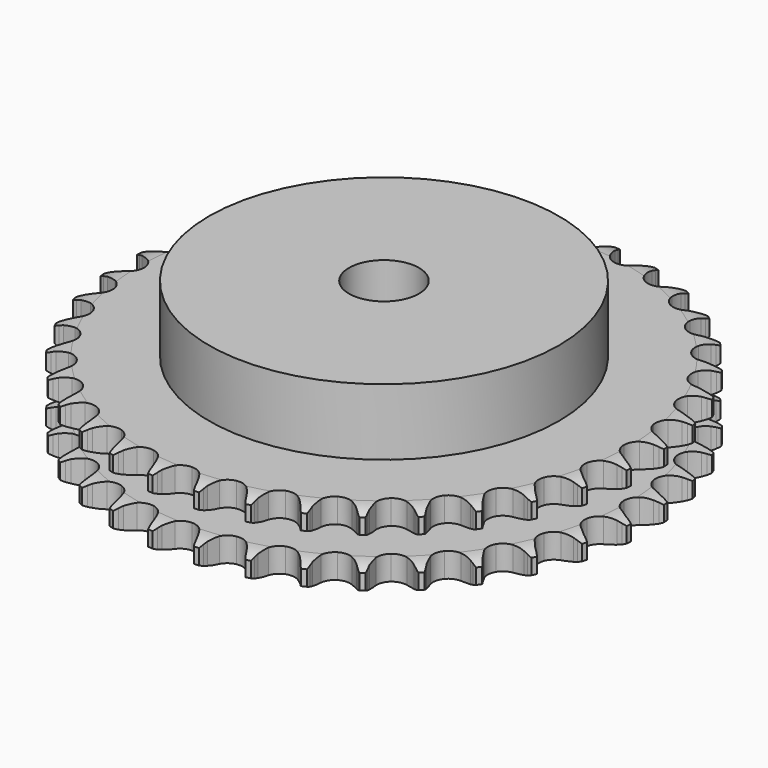
from build123d import *

# Parameters (mm, degrees)
PAD_DEPTH         = 21
SKETCH001_R       = 50
PAD001_DEPTH      = 40
SKETCH002_R       = 10
POCKET_DEPTH      = 0.001
POCKET_DEPTH_BACK = 40.001


with BuildPart() as part:
    # Sprocket → Pad (new body)
    with BuildSketch(Plane.XY):
        with BuildLine():
            ThreePointArc((-6.681952, 76.375066), (-5.936504, 75.349969), (-5.391044, 74.205858))
            Line((-5.391044, 74.205858), (-4.975926, 73.078951))
            ThreePointArc((-4.975926, 73.078951), (-4.31882, 71.625876), (-3.46066, 70.281713))
            ThreePointArc((-3.46066, 70.281713), (-1.936288, 69.002613), (0, 68.543704))
            ThreePointArc((0, 68.543704), (1.936288, 69.002613), (3.46066, 70.281713))
            ThreePointArc((3.46066, 70.281713), (4.31882, 71.625876), (4.975926, 73.078951))
            Line((4.975926, 73.078951), (5.391044, 74.205858))
            ThreePointArc((5.391044, 74.205858), (5.936504, 75.349969), (6.681952, 76.375066))
            ThreePointArc((6.681952, 76.375066), (7.23807, 75.236097), (7.57657, 74.01465))
            Line((7.57657, 74.01465), (7.789696, 72.832778))
            ThreePointArc((7.789696, 72.832778), (8.184495, 71.287674), (8.796206, 69.814913))
            ThreePointArc((8.796206, 69.814913), (10.075307, 68.290541), (11.902489, 67.502371))
            ThreePointArc((11.902489, 67.502371), (13.889049, 67.618075), (15.612376, 68.613039))
            Line((15.612376, 68.613039), (17.590357, 71.104657))
            ThreePointArc((17.590357, 71.104657), (17.87859, 71.631673), (18.194854, 72.14236))
            ThreePointArc((18.194854, 72.14236), (18.9307, 73.174371), (19.84283, 74.054448))
            ThreePointArc((19.84283, 74.054448), (20.192718, 72.836214), (20.313974, 71.574543))
            Line((20.313974, 71.574543), (20.318632, 70.373618))
            ThreePointArc((20.318632, 70.373618), (20.439129, 68.783431), (20.785805, 67.226823))
            ThreePointArc((20.785805, 67.226823), (21.780768, 65.503496), (23.443328, 64.410013))
            ThreePointArc((23.443328, 64.410013), (25.419799, 64.178997), (27.289718, 64.859592))
            Line((27.289718, 64.859592), (29.670314, 66.969884))
            ThreePointArc((29.670314, 66.969884), (30.045683, 67.438842), (30.445823, 67.886852))
            ThreePointArc((30.445823, 67.886852), (31.349696, 68.775406), (32.400792, 69.483724))
            ThreePointArc((32.400792, 69.483724), (32.533822, 68.22324), (32.434148, 66.95968))
            Line((32.434148, 66.95968), (32.230197, 65.776191))
            ThreePointArc((32.230197, 65.776191), (32.07273, 64.189238), (32.143837, 62.596079))
            ThreePointArc((32.143837, 62.596079), (32.824432, 60.72616), (34.271852, 59.360589))
            ThreePointArc((34.271852, 59.360589), (36.178181, 58.789872), (38.137876, 59.135419))
            Line((38.137876, 59.135419), (40.848754, 60.800265))
            ThreePointArc((40.848754, 60.800265), (41.299854, 61.196917), (41.77171, 61.568637))
            ThreePointArc((41.77171, 61.568637), (42.816148, 62.286736), (43.974274, 62.801771))
            ThreePointArc((43.974274, 62.801771), (43.886401, 61.537337), (43.568827, 60.310282))
            Line((43.568827, 60.310282), (43.162463, 59.180188))
            ThreePointArc((43.162463, 59.180188), (42.731818, 57.644689), (42.525195, 56.063385))
            ThreePointArc((42.525195, 56.063385), (42.870742, 54.10369), (44.059044, 52.507524))
            ThreePointArc((44.059044, 52.507524), (45.837307, 51.614446), (47.827234, 51.614446))
            Line((47.827234, 51.614446), (50.786025, 52.78326))
            ThreePointArc((50.786025, 52.78326), (51.299149, 53.095554), (51.828386, 53.379689))
            ThreePointArc((51.828386, 53.379689), (52.981653, 53.905514), (54.211619, 54.211619))
            ThreePointArc((54.211619, 54.211619), (53.905514, 52.981653), (53.379689, 51.828386))
            Line((53.379689, 51.828386), (52.78326, 50.786025))
            ThreePointArc((52.78326, 50.786025), (52.09252, 49.348634), (51.614446, 47.827234))
            ThreePointArc((51.614446, 47.827234), (51.614446, 45.837307), (52.507524, 44.059044))
            ThreePointArc((52.507524, 44.059044), (54.10369, 42.870742), (56.063385, 42.525195))
            Line((56.063385, 42.525195), (59.180188, 43.162463))
            ThreePointArc((59.180188, 43.162463), (59.739746, 43.380909), (60.310282, 43.568827))
            ThreePointArc((60.310282, 43.568827), (61.537337, 43.886401), (62.801771, 43.974274))
            ThreePointArc((62.801771, 43.974274), (62.286736, 42.816148), (61.568637, 41.77171))
            Line((61.568637, 41.77171), (60.800265, 40.848754))
            ThreePointArc((60.800265, 40.848754), (59.870418, 39.553146), (59.135419, 38.137876))
            ThreePointArc((59.135419, 38.137876), (58.789872, 36.178181), (59.360589, 34.271852))
            ThreePointArc((59.360589, 34.271852), (60.72616, 32.824432), (62.596079, 32.143837))
            Line((62.596079, 32.143837), (65.776191, 32.230197))
            ThreePointArc((65.776191, 32.230197), (66.365181, 32.348157), (66.95968, 32.434148))
            ThreePointArc((66.95968, 32.434148), (68.22324, 32.533822), (69.483724, 32.400792))
            ThreePointArc((69.483724, 32.400792), (68.775406, 31.349696), (67.886852, 30.445823))
            Line((67.886852, 30.445823), (66.969884, 29.670314))
            ThreePointArc((66.969884, 29.670314), (65.829184, 28.555856), (64.859592, 27.289718))
            ThreePointArc((64.859592, 27.289718), (64.178997, 25.419799), (64.410013, 23.443328))
            ThreePointArc((64.410013, 23.443328), (65.503496, 21.780768), (67.226823, 20.785805))
            Line((67.226823, 20.785805), (70.373618, 20.318632))
            ThreePointArc((70.373618, 20.318632), (70.974143, 20.332524), (71.574543, 20.313974))
            ThreePointArc((71.574543, 20.313974), (72.836214, 20.192718), (74.054448, 19.84283))
            ThreePointArc((74.054448, 19.84283), (73.174371, 18.9307), (72.14236, 18.194854))
            Line((72.14236, 18.194854), (71.104657, 17.590357))
            ThreePointArc((71.104657, 17.590357), (69.787763, 16.69091), (68.613039, 15.612376))
            ThreePointArc((68.613039, 15.612376), (67.618075, 13.889049), (67.502371, 11.902489))
            ThreePointArc((67.502371, 11.902489), (68.290541, 10.075307), (69.814913, 8.796206))
            Line((69.814913, 8.796206), (72.832778, 7.789696))
            ThreePointArc((72.832778, 7.789696), (73.426592, 7.699096), (74.01465, 7.57657))
            ThreePointArc((74.01465, 7.57657), (75.236097, 7.23807), (76.375066, 6.681952))
            ThreePointArc((76.375066, 6.681952), (75.349969, 5.936504), (74.205858, 5.391044))
            Line((74.205858, 5.391044), (73.078951, 4.975926))
            ThreePointArc((73.078951, 4.975926), (71.625876, 4.31882), (70.281713, 3.46066))
            ThreePointArc((70.281713, 3.46066), (69.002613, 1.936288), (68.543704, 0))
            ThreePointArc((68.543704, 0), (69.002613, -1.936288), (70.281713, -3.46066))
            Line((70.281713, -3.46066), (73.078951, -4.975926))
            ThreePointArc((73.078951, -4.975926), (73.648011, -5.168264), (74.205858, -5.391044))
            ThreePointArc((74.205858, -5.391044), (75.349969, -5.936504), (76.375066, -6.681952))
            ThreePointArc((76.375066, -6.681952), (75.236097, -7.23807), (74.01465, -7.57657))
            Line((74.01465, -7.57657), (72.832778, -7.789696))
            ThreePointArc((72.832778, -7.789696), (71.287674, -8.184495), (69.814913, -8.796206))
            ThreePointArc((69.814913, -8.796206), (68.290541, -10.075307), (67.502371, -11.902489))
            ThreePointArc((67.502371, -11.902489), (67.618075, -13.889049), (68.613039, -15.612376))
            Line((68.613039, -15.612376), (71.104657, -17.590357))
            ThreePointArc((71.104657, -17.590357), (71.631673, -17.87859), (72.14236, -18.194854))
            ThreePointArc((72.14236, -18.194854), (73.174371, -18.9307), (74.054448, -19.84283))
            ThreePointArc((74.054448, -19.84283), (72.836214, -20.192718), (71.574543, -20.313974))
            Line((71.574543, -20.313974), (70.373618, -20.318632))
            ThreePointArc((70.373618, -20.318632), (68.783431, -20.439129), (67.226823, -20.785805))
            ThreePointArc((67.226823, -20.785805), (65.503496, -21.780768), (64.410013, -23.443328))
            ThreePointArc((64.410013, -23.443328), (64.178997, -25.419799), (64.859592, -27.289718))
            Line((64.859592, -27.289718), (66.969884, -29.670314))
            ThreePointArc((66.969884, -29.670314), (67.438842, -30.045683), (67.886852, -30.445823))
            ThreePointArc((67.886852, -30.445823), (68.775406, -31.349696), (69.483724, -32.400792))
            ThreePointArc((69.483724, -32.400792), (68.22324, -32.533822), (66.95968, -32.434148))
            Line((66.95968, -32.434148), (65.776191, -32.230197))
            ThreePointArc((65.776191, -32.230197), (64.189238, -32.07273), (62.596079, -32.143837))
            ThreePointArc((62.596079, -32.143837), (60.72616, -32.824432), (59.360589, -34.271852))
            ThreePointArc((59.360589, -34.271852), (58.789872, -36.178181), (59.135419, -38.137876))
            Line((59.135419, -38.137876), (60.800265, -40.848754))
            ThreePointArc((60.800265, -40.848754), (61.196917, -41.299854), (61.568637, -41.77171))
            ThreePointArc((61.568637, -41.77171), (62.286736, -42.816148), (62.801771, -43.974274))
            ThreePointArc((62.801771, -43.974274), (61.537337, -43.886401), (60.310282, -43.568827))
            Line((60.310282, -43.568827), (59.180188, -43.162463))
            ThreePointArc((59.180188, -43.162463), (57.644689, -42.731818), (56.063385, -42.525195))
            ThreePointArc((56.063385, -42.525195), (54.10369, -42.870742), (52.507524, -44.059044))
            ThreePointArc((52.507524, -44.059044), (51.614446, -45.837307), (51.614446, -47.827234))
            Line((51.614446, -47.827234), (52.78326, -50.786025))
            ThreePointArc((52.78326, -50.786025), (53.095554, -51.299149), (53.379689, -51.828386))
            ThreePointArc((53.379689, -51.828386), (53.905514, -52.981653), (54.211619, -54.211619))
            ThreePointArc((54.211619, -54.211619), (52.981653, -53.905514), (51.828386, -53.379689))
            Line((51.828386, -53.379689), (50.786025, -52.78326))
            ThreePointArc((50.786025, -52.78326), (49.348634, -52.09252), (47.827234, -51.614446))
            ThreePointArc((47.827234, -51.614446), (45.837307, -51.614446), (44.059044, -52.507524))
            ThreePointArc((44.059044, -52.507524), (42.870742, -54.10369), (42.525195, -56.063385))
            Line((42.525195, -56.063385), (43.162463, -59.180188))
            ThreePointArc((43.162463, -59.180188), (43.380909, -59.739746), (43.568827, -60.310282))
            ThreePointArc((43.568827, -60.310282), (43.886401, -61.537337), (43.974274, -62.801771))
            ThreePointArc((43.974274, -62.801771), (42.816148, -62.286736), (41.77171, -61.568637))
            Line((41.77171, -61.568637), (40.848754, -60.800265))
            ThreePointArc((40.848754, -60.800265), (39.553146, -59.870418), (38.137876, -59.135419))
            ThreePointArc((38.137876, -59.135419), (36.178181, -58.789872), (34.271852, -59.360589))
            ThreePointArc((34.271852, -59.360589), (32.824432, -60.72616), (32.143837, -62.596079))
            Line((32.143837, -62.596079), (32.230197, -65.776191))
            ThreePointArc((32.230197, -65.776191), (32.348157, -66.365181), (32.434148, -66.95968))
            ThreePointArc((32.434148, -66.95968), (32.533822, -68.22324), (32.400792, -69.483724))
            ThreePointArc((32.400792, -69.483724), (31.349696, -68.775406), (30.445823, -67.886852))
            Line((30.445823, -67.886852), (29.670314, -66.969884))
            ThreePointArc((29.670314, -66.969884), (28.555856, -65.829184), (27.289718, -64.859592))
            ThreePointArc((27.289718, -64.859592), (25.419799, -64.178997), (23.443328, -64.410013))
            ThreePointArc((23.443328, -64.410013), (21.780768, -65.503496), (20.785805, -67.226823))
            Line((20.785805, -67.226823), (20.318632, -70.373618))
            ThreePointArc((20.318632, -70.373618), (20.332524, -70.974143), (20.313974, -71.574543))
            ThreePointArc((20.313974, -71.574543), (20.192718, -72.836214), (19.84283, -74.054448))
            ThreePointArc((19.84283, -74.054448), (18.9307, -73.174371), (18.194854, -72.14236))
            Line((18.194854, -72.14236), (17.590357, -71.104657))
            ThreePointArc((17.590357, -71.104657), (16.69091, -69.787763), (15.612376, -68.613039))
            ThreePointArc((15.612376, -68.613039), (13.889049, -67.618075), (11.902489, -67.502371))
            ThreePointArc((11.902489, -67.502371), (10.075307, -68.290541), (8.796206, -69.814913))
            Line((8.796206, -69.814913), (7.789696, -72.832778))
            ThreePointArc((7.789696, -72.832778), (7.699096, -73.426592), (7.57657, -74.01465))
            ThreePointArc((7.57657, -74.01465), (7.23807, -75.236097), (6.681952, -76.375066))
            ThreePointArc((6.681952, -76.375066), (5.936504, -75.349969), (5.391044, -74.205858))
            Line((5.391044, -74.205858), (4.975926, -73.078951))
            ThreePointArc((4.975926, -73.078951), (4.31882, -71.625876), (3.46066, -70.281713))
            ThreePointArc((3.46066, -70.281713), (1.936288, -69.002613), (0, -68.543704))
            ThreePointArc((0, -68.543704), (-1.936288, -69.002613), (-3.46066, -70.281713))
            Line((-3.46066, -70.281713), (-4.975926, -73.078951))
            ThreePointArc((-4.975926, -73.078951), (-5.168264, -73.648011), (-5.391044, -74.205858))
            ThreePointArc((-5.391044, -74.205858), (-5.936504, -75.349969), (-6.681952, -76.375066))
            ThreePointArc((-6.681952, -76.375066), (-7.23807, -75.236097), (-7.57657, -74.01465))
            Line((-7.57657, -74.01465), (-7.789696, -72.832778))
            ThreePointArc((-7.789696, -72.832778), (-8.184495, -71.287674), (-8.796206, -69.814913))
            ThreePointArc((-8.796206, -69.814913), (-10.075307, -68.290541), (-11.902489, -67.502371))
            ThreePointArc((-11.902489, -67.502371), (-13.889049, -67.618075), (-15.612376, -68.613039))
            Line((-15.612376, -68.613039), (-17.590357, -71.104657))
            ThreePointArc((-17.590357, -71.104657), (-17.87859, -71.631673), (-18.194854, -72.14236))
            ThreePointArc((-18.194854, -72.14236), (-18.9307, -73.174371), (-19.84283, -74.054448))
            ThreePointArc((-19.84283, -74.054448), (-20.192718, -72.836214), (-20.313974, -71.574543))
            Line((-20.313974, -71.574543), (-20.318632, -70.373618))
            ThreePointArc((-20.318632, -70.373618), (-20.439129, -68.783431), (-20.785805, -67.226823))
            ThreePointArc((-20.785805, -67.226823), (-21.780768, -65.503496), (-23.443328, -64.410013))
            ThreePointArc((-23.443328, -64.410013), (-25.419799, -64.178997), (-27.289718, -64.859592))
            Line((-27.289718, -64.859592), (-29.670314, -66.969884))
            ThreePointArc((-29.670314, -66.969884), (-30.045683, -67.438842), (-30.445823, -67.886852))
            ThreePointArc((-30.445823, -67.886852), (-31.349696, -68.775406), (-32.400792, -69.483724))
            ThreePointArc((-32.400792, -69.483724), (-32.533822, -68.22324), (-32.434148, -66.95968))
            Line((-32.434148, -66.95968), (-32.230197, -65.776191))
            ThreePointArc((-32.230197, -65.776191), (-32.07273, -64.189238), (-32.143837, -62.596079))
            ThreePointArc((-32.143837, -62.596079), (-32.824432, -60.72616), (-34.271852, -59.360589))
            ThreePointArc((-34.271852, -59.360589), (-36.178181, -58.789872), (-38.137876, -59.135419))
            Line((-38.137876, -59.135419), (-40.848754, -60.800265))
            ThreePointArc((-40.848754, -60.800265), (-41.299854, -61.196917), (-41.77171, -61.568637))
            ThreePointArc((-41.77171, -61.568637), (-42.816148, -62.286736), (-43.974274, -62.801771))
            ThreePointArc((-43.974274, -62.801771), (-43.886401, -61.537337), (-43.568827, -60.310282))
            Line((-43.568827, -60.310282), (-43.162463, -59.180188))
            ThreePointArc((-43.162463, -59.180188), (-42.731818, -57.644689), (-42.525195, -56.063385))
            ThreePointArc((-42.525195, -56.063385), (-42.870742, -54.10369), (-44.059044, -52.507524))
            ThreePointArc((-44.059044, -52.507524), (-45.837307, -51.614446), (-47.827234, -51.614446))
            Line((-47.827234, -51.614446), (-50.786025, -52.78326))
            ThreePointArc((-50.786025, -52.78326), (-51.299149, -53.095554), (-51.828386, -53.379689))
            ThreePointArc((-51.828386, -53.379689), (-52.981653, -53.905514), (-54.211619, -54.211619))
            ThreePointArc((-54.211619, -54.211619), (-53.905514, -52.981653), (-53.379689, -51.828386))
            Line((-53.379689, -51.828386), (-52.78326, -50.786025))
            ThreePointArc((-52.78326, -50.786025), (-52.09252, -49.348634), (-51.614446, -47.827234))
            ThreePointArc((-51.614446, -47.827234), (-51.614446, -45.837307), (-52.507524, -44.059044))
            ThreePointArc((-52.507524, -44.059044), (-54.10369, -42.870742), (-56.063385, -42.525195))
            Line((-56.063385, -42.525195), (-59.180188, -43.162463))
            ThreePointArc((-59.180188, -43.162463), (-59.739746, -43.380909), (-60.310282, -43.568827))
            ThreePointArc((-60.310282, -43.568827), (-61.537337, -43.886401), (-62.801771, -43.974274))
            ThreePointArc((-62.801771, -43.974274), (-62.286736, -42.816148), (-61.568637, -41.77171))
            Line((-61.568637, -41.77171), (-60.800265, -40.848754))
            ThreePointArc((-60.800265, -40.848754), (-59.870418, -39.553146), (-59.135419, -38.137876))
            ThreePointArc((-59.135419, -38.137876), (-58.789872, -36.178181), (-59.360589, -34.271852))
            ThreePointArc((-59.360589, -34.271852), (-60.72616, -32.824432), (-62.596079, -32.143837))
            Line((-62.596079, -32.143837), (-65.776191, -32.230197))
            ThreePointArc((-65.776191, -32.230197), (-66.365181, -32.348157), (-66.95968, -32.434148))
            ThreePointArc((-66.95968, -32.434148), (-68.22324, -32.533822), (-69.483724, -32.400792))
            ThreePointArc((-69.483724, -32.400792), (-68.775406, -31.349696), (-67.886852, -30.445823))
            Line((-67.886852, -30.445823), (-66.969884, -29.670314))
            ThreePointArc((-66.969884, -29.670314), (-65.829184, -28.555856), (-64.859592, -27.289718))
            ThreePointArc((-64.859592, -27.289718), (-64.178997, -25.419799), (-64.410013, -23.443328))
            ThreePointArc((-64.410013, -23.443328), (-65.503496, -21.780768), (-67.226823, -20.785805))
            Line((-67.226823, -20.785805), (-70.373618, -20.318632))
            ThreePointArc((-70.373618, -20.318632), (-70.974143, -20.332524), (-71.574543, -20.313974))
            ThreePointArc((-71.574543, -20.313974), (-72.836214, -20.192718), (-74.054448, -19.84283))
            ThreePointArc((-74.054448, -19.84283), (-73.174371, -18.9307), (-72.14236, -18.194854))
            Line((-72.14236, -18.194854), (-71.104657, -17.590357))
            ThreePointArc((-71.104657, -17.590357), (-69.787763, -16.69091), (-68.613039, -15.612376))
            ThreePointArc((-68.613039, -15.612376), (-67.618075, -13.889049), (-67.502371, -11.902489))
            ThreePointArc((-67.502371, -11.902489), (-68.290541, -10.075307), (-69.814913, -8.796206))
            Line((-69.814913, -8.796206), (-72.832778, -7.789696))
            ThreePointArc((-72.832778, -7.789696), (-73.426592, -7.699096), (-74.01465, -7.57657))
            ThreePointArc((-74.01465, -7.57657), (-75.236097, -7.23807), (-76.375066, -6.681952))
            ThreePointArc((-76.375066, -6.681952), (-75.349969, -5.936504), (-74.205858, -5.391044))
            Line((-74.205858, -5.391044), (-73.078951, -4.975926))
            ThreePointArc((-73.078951, -4.975926), (-71.625876, -4.31882), (-70.281713, -3.46066))
            ThreePointArc((-70.281713, -3.46066), (-69.002613, -1.936288), (-68.543704, 0))
            ThreePointArc((-68.543704, 0), (-69.002613, 1.936288), (-70.281713, 3.46066))
            Line((-70.281713, 3.46066), (-73.078951, 4.975926))
            ThreePointArc((-73.078951, 4.975926), (-73.648011, 5.168264), (-74.205858, 5.391044))
            ThreePointArc((-74.205858, 5.391044), (-75.349969, 5.936504), (-76.375066, 6.681952))
            ThreePointArc((-76.375066, 6.681952), (-75.236097, 7.23807), (-74.01465, 7.57657))
            Line((-74.01465, 7.57657), (-72.832778, 7.789696))
            ThreePointArc((-72.832778, 7.789696), (-71.287674, 8.184495), (-69.814913, 8.796206))
            ThreePointArc((-69.814913, 8.796206), (-68.290541, 10.075307), (-67.502371, 11.902489))
            ThreePointArc((-67.502371, 11.902489), (-67.618075, 13.889049), (-68.613039, 15.612376))
            Line((-68.613039, 15.612376), (-71.104657, 17.590357))
            ThreePointArc((-71.104657, 17.590357), (-71.631673, 17.87859), (-72.14236, 18.194854))
            ThreePointArc((-72.14236, 18.194854), (-73.174371, 18.9307), (-74.054448, 19.84283))
            ThreePointArc((-74.054448, 19.84283), (-72.836214, 20.192718), (-71.574543, 20.313974))
            Line((-71.574543, 20.313974), (-70.373618, 20.318632))
            ThreePointArc((-70.373618, 20.318632), (-68.783431, 20.439129), (-67.226823, 20.785805))
            ThreePointArc((-67.226823, 20.785805), (-65.503496, 21.780768), (-64.410013, 23.443328))
            ThreePointArc((-64.410013, 23.443328), (-64.178997, 25.419799), (-64.859592, 27.289718))
            Line((-64.859592, 27.289718), (-66.969884, 29.670314))
            ThreePointArc((-66.969884, 29.670314), (-67.438842, 30.045683), (-67.886852, 30.445823))
            ThreePointArc((-67.886852, 30.445823), (-68.775406, 31.349696), (-69.483724, 32.400792))
            ThreePointArc((-69.483724, 32.400792), (-68.22324, 32.533822), (-66.95968, 32.434148))
            Line((-66.95968, 32.434148), (-65.776191, 32.230197))
            ThreePointArc((-65.776191, 32.230197), (-64.189238, 32.07273), (-62.596079, 32.143837))
            ThreePointArc((-62.596079, 32.143837), (-60.72616, 32.824432), (-59.360589, 34.271852))
            ThreePointArc((-59.360589, 34.271852), (-58.789872, 36.178181), (-59.135419, 38.137876))
            Line((-59.135419, 38.137876), (-60.800265, 40.848754))
            ThreePointArc((-60.800265, 40.848754), (-61.196917, 41.299854), (-61.568637, 41.77171))
            ThreePointArc((-61.568637, 41.77171), (-62.286736, 42.816148), (-62.801771, 43.974274))
            ThreePointArc((-62.801771, 43.974274), (-61.537337, 43.886401), (-60.310282, 43.568827))
            Line((-60.310282, 43.568827), (-59.180188, 43.162463))
            ThreePointArc((-59.180188, 43.162463), (-57.644689, 42.731818), (-56.063385, 42.525195))
            ThreePointArc((-56.063385, 42.525195), (-54.10369, 42.870742), (-52.507524, 44.059044))
            ThreePointArc((-52.507524, 44.059044), (-51.614446, 45.837307), (-51.614446, 47.827234))
            Line((-51.614446, 47.827234), (-52.78326, 50.786025))
            ThreePointArc((-52.78326, 50.786025), (-53.095554, 51.299149), (-53.379689, 51.828386))
            ThreePointArc((-53.379689, 51.828386), (-53.905514, 52.981653), (-54.211619, 54.211619))
            ThreePointArc((-54.211619, 54.211619), (-52.981653, 53.905514), (-51.828386, 53.379689))
            Line((-51.828386, 53.379689), (-50.786025, 52.78326))
            ThreePointArc((-50.786025, 52.78326), (-49.348634, 52.09252), (-47.827234, 51.614446))
            ThreePointArc((-47.827234, 51.614446), (-45.837307, 51.614446), (-44.059044, 52.507524))
            ThreePointArc((-44.059044, 52.507524), (-42.870742, 54.10369), (-42.525195, 56.063385))
            Line((-42.525195, 56.063385), (-43.162463, 59.180188))
            ThreePointArc((-43.162463, 59.180188), (-43.380909, 59.739746), (-43.568827, 60.310282))
            ThreePointArc((-43.568827, 60.310282), (-43.886401, 61.537337), (-43.974274, 62.801771))
            ThreePointArc((-43.974274, 62.801771), (-42.816148, 62.286736), (-41.77171, 61.568637))
            Line((-41.77171, 61.568637), (-40.848754, 60.800265))
            ThreePointArc((-40.848754, 60.800265), (-39.553146, 59.870418), (-38.137876, 59.135419))
            ThreePointArc((-38.137876, 59.135419), (-36.178181, 58.789872), (-34.271852, 59.360589))
            ThreePointArc((-34.271852, 59.360589), (-32.824432, 60.72616), (-32.143837, 62.596079))
            Line((-32.143837, 62.596079), (-32.230197, 65.776191))
            ThreePointArc((-32.230197, 65.776191), (-32.348157, 66.365181), (-32.434148, 66.95968))
            ThreePointArc((-32.434148, 66.95968), (-32.533822, 68.22324), (-32.400792, 69.483724))
            ThreePointArc((-32.400792, 69.483724), (-31.349696, 68.775406), (-30.445823, 67.886852))
            Line((-30.445823, 67.886852), (-29.670314, 66.969884))
            ThreePointArc((-29.670314, 66.969884), (-28.555856, 65.829184), (-27.289718, 64.859592))
            ThreePointArc((-27.289718, 64.859592), (-25.419799, 64.178997), (-23.443328, 64.410013))
            ThreePointArc((-23.443328, 64.410013), (-21.780768, 65.503496), (-20.785805, 67.226823))
            Line((-20.785805, 67.226823), (-20.318632, 70.373618))
            ThreePointArc((-20.318632, 70.373618), (-20.332524, 70.974143), (-20.313974, 71.574543))
            ThreePointArc((-20.313974, 71.574543), (-20.192718, 72.836214), (-19.84283, 74.054448))
            ThreePointArc((-19.84283, 74.054448), (-18.9307, 73.174371), (-18.194854, 72.14236))
            Line((-18.194854, 72.14236), (-17.590357, 71.104657))
            ThreePointArc((-17.590357, 71.104657), (-16.69091, 69.787763), (-15.612376, 68.613039))
            ThreePointArc((-15.612376, 68.613039), (-13.889049, 67.618075), (-11.902489, 67.502371))
            ThreePointArc((-11.902489, 67.502371), (-10.075307, 68.290541), (-8.796206, 69.814913))
            Line((-8.796206, 69.814913), (-7.789696, 72.832778))
            ThreePointArc((-7.789696, 72.832778), (-7.699096, 73.426592), (-7.57657, 74.01465))
            ThreePointArc((-7.57657, 74.01465), (-7.23807, 75.236097), (-6.681952, 76.375066))
        make_face()
    extrude(amount=PAD_DEPTH)

    # Sketch → Groove (revolve, cut)
    with BuildSketch(Plane.XZ):
        with BuildLine():
            ThreePointArc((69.833431, 0), (72.74032, 0.329167), (75.5, 1.3))
            Line((75.5, 1.3), (75.5, 5.7))
            ThreePointArc((75.5, 5.7), (72.74032, 6.670833), (69.833431, 7))
            Line((50, 7), (69.833431, 7))
            Line((50, 14), (50, 7))
            Line((69.833431, 14), (50, 14))
            ThreePointArc((69.833431, 14), (72.74032, 14.329167), (75.5, 15.3))
            Line((75.5, 15.3), (75.5, 19.7))
            ThreePointArc((75.5, 19.7), (72.74032, 20.670833), (69.833431, 21))
            Line((69.833431, 21), (79.833431, 21))
            Line((79.833431, 21), (79.833431, 0))
            Line((69.833431, 0), (79.833431, 0))
        make_face()
    revolve(axis=Axis((0, 0, 0), (0, 0, 1)), mode=Mode.SUBTRACT)

    # Sketch001 → Pad001 (join)
    with BuildSketch(Plane.XY):
        Circle(SKETCH001_R)
    extrude(amount=PAD001_DEPTH)

    # Sketch002 → Pocket (cut, two sides)
    with BuildSketch(Plane.XY) as pocket_sk:
        Circle(SKETCH002_R)
    extrude(amount=-POCKET_DEPTH, mode=Mode.SUBTRACT)
    extrude(pocket_sk.sketch, amount=POCKET_DEPTH_BACK, mode=Mode.SUBTRACT)


solid = part.part
